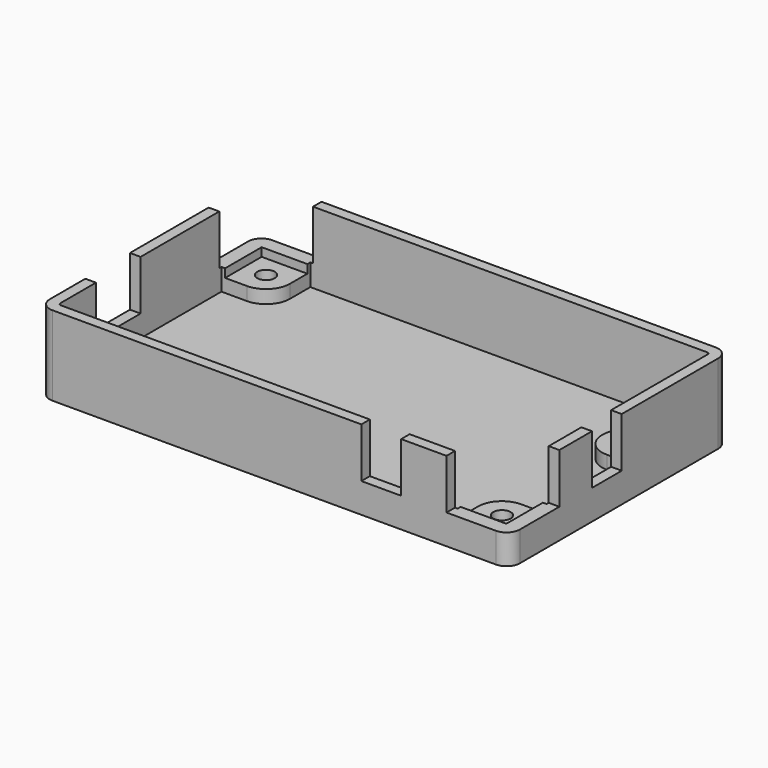
from build123d import *

# Parameters (mm, degrees)
SKETCH_W        = 88.55
SKETCH_H        = 51.72
PAD_DEPTH       = 15
SKETCH001_W     = 84.55
SKETCH001_H     = 47.72
POCKET_DEPTH    = 13.5
PAD001_DEPTH    = 2.5
PAD002_DEPTH    = 2.5
PAD003_DEPTH    = 2.5
PAD004_DEPTH    = 2.5
SKETCH006_R     = 1.65
HOLE_DEPTH      = 25
SKETCH007_R     = 1.65
HOLE001_DEPTH   = 25
SKETCH008_R     = 1.65
HOLE002_DEPTH   = 25
SKETCH009_R     = 1.65
HOLE003_DEPTH   = 25
SKETCH010_W     = 7
SKETCH010_H     = 19.4
POCKET001_DEPTH = 2
SKETCH011_W     = 10.5
SKETCH011_H     = 19.4
POCKET002_DEPTH = 2
SKETCH012_W     = 7.5
SKETCH012_H     = 19.4
POCKET003_DEPTH = 2
FILLET_R        = 2.5
FILLET001_R     = 2.5
FILLET002_R     = 2.5
FILLET003_R     = 2.5
FILLET004_R     = 0.5
FILLET005_R     = 0.5
FILLET006_R     = 0.5
FILLET007_R     = 0.5
PAD005_DEPTH    = 1.6
PAD006_DEPTH    = 1.6
PAD007_DEPTH    = 1.6
SKETCH016_W     = 0.7
SKETCH016_H     = 9
PAD008_DEPTH    = 1.6
SKETCH017_W     = 11.81
SKETCH017_H     = 11.81
POCKET004_DEPTH = 9.4
SKETCH018_W     = 11.81
SKETCH018_H     = 11.81
POCKET005_DEPTH = 9.4


with BuildPart() as part:
    # Sketch → Pad (new body)
    with BuildSketch(Plane.XY):
        with Locations((44.275, 25.86)):
            Rectangle(SKETCH_W, SKETCH_H)
    extrude(amount=PAD_DEPTH)

    # Sketch001 (on Face6 of Pad) → Pocket (cut)
    with BuildSketch(Plane.XY.offset(15)):
        with Locations((44.275, 25.86)):
            Rectangle(SKETCH001_W, SKETCH001_H)
    extrude(amount=-POCKET_DEPTH, mode=Mode.SUBTRACT)

    # Sketch002 (on Face11 of Pocket) → Pad001 (join)
    with BuildSketch(Plane.XY.offset(1.5)):
        with BuildLine():
            ThreePointArc((11.31, 6.81), (9.991981, 9.991981), (6.81, 11.31))
            Line((2, 11.31), (6.81, 11.31))
            Line((2, 11.31), (2, 2))
            Line((2, 2), (11.31, 2))
            Line((11.31, 6.81), (11.31, 2))
        make_face()
    extrude(amount=PAD001_DEPTH)

    # Sketch003 (on Face11 of Pad001) → Pad002 (join)
    with BuildSketch(Plane.XY.offset(1.5)):
        with BuildLine():
            ThreePointArc((6.81, 40.41), (9.991981, 41.728019), (11.31, 44.91))
            Line((11.31, 44.91), (11.31, 49.72))
            Line((2, 49.72), (11.31, 49.72))
            Line((2, 49.72), (2, 40.41))
            Line((2, 40.41), (6.81, 40.41))
        make_face()
    extrude(amount=PAD002_DEPTH)

    # Sketch004 (on Face11 of Pad002) → Pad003 (join)
    with BuildSketch(Plane.XY.offset(1.5)):
        with BuildLine():
            ThreePointArc((81.739971, 40.52), (77.24, 36.019985), (81.74, 31.52))
            Line((81.74, 31.52), (86.55, 31.52))
            Line((86.55, 31.52), (86.55, 40.52))
            Line((81.739971, 40.52), (86.55, 40.52))
        make_face()
    extrude(amount=PAD003_DEPTH)

    # Sketch005 (on Face11 of Pad003) → Pad004 (join)
    with BuildSketch(Plane.XY.offset(1.5)):
        with BuildLine():
            ThreePointArc((81.74, 11.31), (78.558019, 9.991981), (77.24, 6.81))
            Line((77.24, 6.81), (77.24, 2))
            Line((77.24, 2), (86.55, 2))
            Line((86.55, 2), (86.55, 11.31))
            Line((81.74, 11.31), (86.55, 11.31))
        make_face()
    extrude(amount=PAD004_DEPTH)

    # Sketch006 (on Face20 of Pad004) → Hole (cut)
    with BuildSketch(Plane.XY.offset(4)):
        with Locations((6.81, 44.91)):
            Circle(SKETCH006_R)
    extrude(amount=-HOLE_DEPTH, mode=Mode.SUBTRACT)

    # Sketch007 (on Face19 of Hole) → Hole001 (cut)
    with BuildSketch(Plane.XY.offset(4)):
        with Locations((6.81, 6.81)):
            Circle(SKETCH007_R)
    extrude(amount=-HOLE001_DEPTH, mode=Mode.SUBTRACT)

    # Sketch008 (on Face15 of Hole001) → Hole002 (cut)
    with BuildSketch(Plane.XY.offset(4)):
        with Locations((81.74, 6.81)):
            Circle(SKETCH008_R)
    extrude(amount=-HOLE002_DEPTH, mode=Mode.SUBTRACT)

    # Sketch009 (on Face21 of Hole002) → Hole003 (cut)
    with BuildSketch(Plane.XY.offset(4)):
        with Locations((81.74, 36.02)):
            Circle(SKETCH009_R)
    extrude(amount=-HOLE003_DEPTH, mode=Mode.SUBTRACT)

    # Sketch010 (on Face3 of Hole003) → Pocket001 (cut)
    with BuildSketch(Plane.YZ.offset(88.55)):
        with Locations((23, 15.3)):
            Rectangle(SKETCH010_W, SKETCH010_H)
    extrude(amount=-POCKET001_DEPTH, mode=Mode.SUBTRACT)

    # Sketch011 (on Face2 of Pocket001) → Pocket002 (cut)
    with BuildSketch(Plane(origin=(0, 0, 0), x_dir=(0, -1, 0), z_dir=(-1, 0, 0))):
        with Locations((-16.125, 15.3)):
            Rectangle(SKETCH011_W, SKETCH011_H)
    extrude(amount=-POCKET002_DEPTH, mode=Mode.SUBTRACT)

    # Sketch012 (on Face1 of Pocket002) → Pocket003 (cut)
    with BuildSketch(Plane.XZ):
        with Locations((64.45, 15.3)):
            Rectangle(SKETCH012_W, SKETCH012_H)
    extrude(amount=-POCKET003_DEPTH, mode=Mode.SUBTRACT)

    # Fillet
    fillet_edges = [part.edges().sort_by_distance(p)[0] for p in [
        (88.55, 0, 7.5),
    ]]
    fillet(fillet_edges, radius=FILLET_R)

    # Fillet001
    fillet001_edges = [part.edges().sort_by_distance(p)[0] for p in [
        (88.55, 51.72, 7.5),
    ]]
    fillet(fillet001_edges, radius=FILLET001_R)

    # Fillet002
    fillet002_edges = [part.edges().sort_by_distance(p)[0] for p in [
        (0, 51.72, 7.5),
    ]]
    fillet(fillet002_edges, radius=FILLET002_R)

    # Fillet003
    fillet003_edges = [part.edges().sort_by_distance(p)[0] for p in [
        (0, 0, 7.5),
    ]]
    fillet(fillet003_edges, radius=FILLET003_R)

    # Fillet004
    fillet004_edges = [part.edges().sort_by_distance(p)[0] for p in [
        (86.55, 49.72, 8.25),
    ]]
    fillet(fillet004_edges, radius=FILLET004_R)

    # Fillet005
    fillet005_edges = [part.edges().sort_by_distance(p)[0] for p in [
        (86.55, 2, 9.5),
    ]]
    fillet(fillet005_edges, radius=FILLET005_R)

    # Fillet006
    fillet006_edges = [part.edges().sort_by_distance(p)[0] for p in [
        (2, 2, 9.5),
    ]]
    fillet(fillet006_edges, radius=FILLET006_R)

    # Fillet007
    fillet007_edges = [part.edges().sort_by_distance(p)[0] for p in [
        (2, 49.72, 9.5),
    ]]
    fillet(fillet007_edges, radius=FILLET007_R)

    # Sketch013 (on Face13 of Fillet007) → Pad005 (join)
    with BuildSketch(Plane.XY.offset(4)):
        Polygon((2.7, 11.31), (2.7, 2.7), (11.31, 2.7), (11.31, 2), (2, 2), (2, 11.31), align=None)
    extrude(amount=PAD005_DEPTH)

    # Sketch014 (on Face9 of Pad005) → Pad006 (join)
    with BuildSketch(Plane.XY.offset(4)):
        Polygon((2.7, 40.41), (2.7, 49.02), (11.31, 49.02), (11.31, 49.72), (2, 49.72), (2, 40.41), align=None)
    extrude(amount=PAD006_DEPTH)

    # Sketch015 (on Face43 of Pad006) → Pad007 (join)
    with BuildSketch(Plane.XY.offset(4)):
        Polygon((85.85, 11.31), (85.85, 2.7), (77.24, 2.7), (77.24, 2), (86.55, 2), (86.55, 11.31), align=None)
    extrude(amount=PAD007_DEPTH)

    # Sketch016 (on Face43 of Pad007) → Pad008 (join)
    with BuildSketch(Plane.XY.offset(4)):
        with Locations((86.2, 36.02)):
            Rectangle(SKETCH016_W, SKETCH016_H)
    extrude(amount=PAD008_DEPTH)

    # Sketch017 (on Face2 of Pad008) → Pocket004 (cut)
    with BuildSketch(Plane.XY.offset(15)):
        with Locations((5.905, 45.815)):
            Rectangle(SKETCH017_W, SKETCH017_H)
    extrude(amount=-POCKET004_DEPTH, mode=Mode.SUBTRACT)

    # Sketch018 (on Face46 of Pocket004) → Pocket005 (cut)
    with BuildSketch(Plane.XY.offset(15)):
        with Locations((82.645, 5.905)):
            Rectangle(SKETCH018_W, SKETCH018_H)
    extrude(amount=-POCKET005_DEPTH, mode=Mode.SUBTRACT)


solid = part.part
